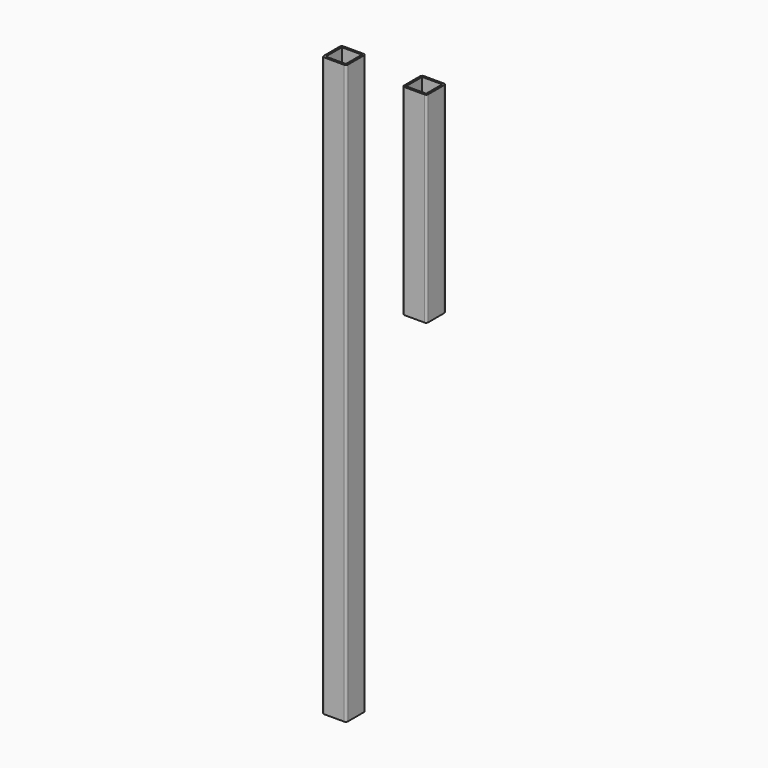
from build123d import *

# Parameters (mm, degrees)
F0_W     = 63.5
F0_H     = 63.5
F1_DEPTH = 914.4
F3_DEPTH = 6.35
F5_DEPTH = 6.35
F7_DEPTH = 6.35
F9_DEPTH = 1193.8


with BuildPart() as f1:
    # F0 (on Top) → F1 (new body, symmetric)
    with BuildSketch(Plane.XY):
        with BuildLine():
            Line((-31.75, -38.1), (31.75, -38.1))
            ThreePointArc((31.75, -38.1), (36.2401280605, -36.2401280605), (38.1, -31.75))
            Line((38.1, -31.75), (38.1, 31.75))
            ThreePointArc((38.1, 31.75), (36.2401280605, 36.2401280605), (31.75, 38.1))
            Line((31.75, 38.1), (-31.75, 38.1))
            ThreePointArc((-31.75, 38.1), (-36.2401280605, 36.2401280605), (-38.1, 31.75))
            Line((-38.1, 31.75), (-38.1, -31.75))
            ThreePointArc((-38.1, -31.75), (-36.2401280605, -36.2401280605), (-31.75, -38.1))
        make_face()
        Rectangle(F0_W, F0_H, mode=Mode.SUBTRACT)
    extrude(amount=F1_DEPTH, both=True)

    # F2 (on face) → F3 (cut, through all)
    with BuildSketch(Plane(origin=(0, 38.1, 0), x_dir=(-1, 0, 0), z_dir=(0, 1, 0))):
        with BuildLine():
            ThreePointArc((0, 355.6), (-4.4901280605, 344.7598719395), (6.35, 349.25))
            ThreePointArc((6.35, 349.25), (4.4901280605, 353.7401280605), (0, 355.6))
        make_face()
    extrude(amount=-F3_DEPTH, mode=Mode.SUBTRACT)

    # F4 (on face) → F5 (cut, through all)
    with BuildSketch(Plane(origin=(-38.1, 0, 0), x_dir=(0, -1, 0), z_dir=(-1, 0, 0))):
        with BuildLine():
            ThreePointArc((0, -842.9625), (3.3675960454, -841.5675960454), (4.7625, -838.2))
            ThreePointArc((4.7625, -838.2), (-3.3675960454, -834.8324039546), (0, -842.9625))
        make_face()
    extrude(amount=-F5_DEPTH, mode=Mode.SUBTRACT)

    # F6 (on face) → F7 (cut, through all)
    with BuildSketch(Plane(origin=(-38.1, 0, 0), x_dir=(0, -1, 0), z_dir=(-1, 0, 0))):
        with BuildLine():
            ThreePointArc((4.7625, 873.125), (3.3675960454, 876.4925960454), (0, 877.8875))
            ThreePointArc((0, 877.8875), (-3.3675960454, 869.7574039546), (4.7625, 873.125))
        make_face()
    extrude(amount=-F7_DEPTH, mode=Mode.SUBTRACT)


with BuildPart() as f8_1:
    # F8: copy of F1
    add(f1.part.moved(Location((254, 0, 0))))

    # F9 (cut): a face of the model
    f9_faces = [f8_1.faces().sort_by_distance(p)[0] for p in [
        (254, -37.0223692655, -914.4),
    ]]
    extrude(f9_faces, amount=-F9_DEPTH, mode=Mode.SUBTRACT)


solid = Compound([f1.part, f8_1.part])
